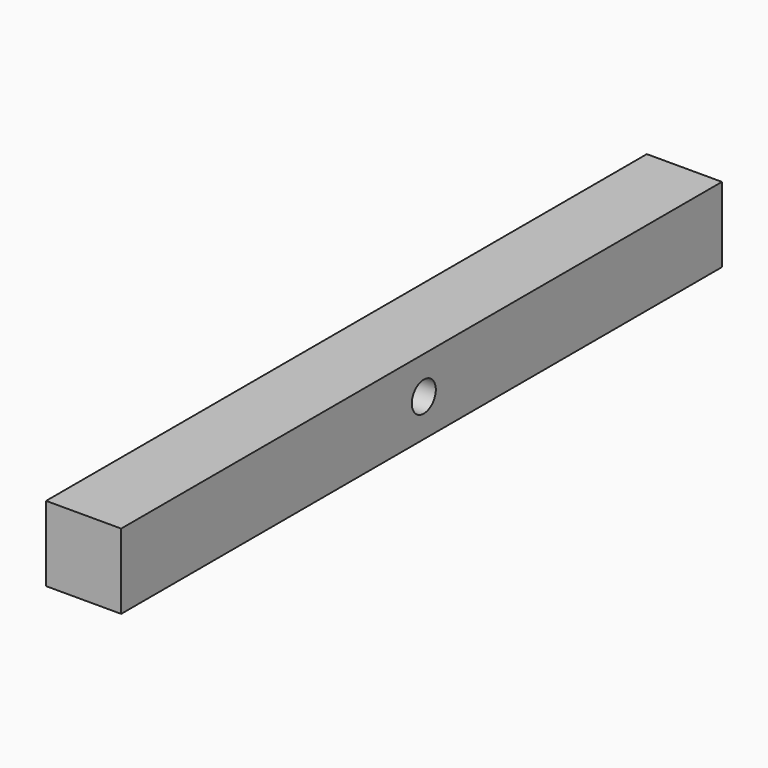
from build123d import *

# Parameters (mm, degrees)
F0_W     = 1000
F0_H     = 100
F1_DEPTH = 100
F2_R     = 20
F3_DEPTH = 100


with BuildPart() as f1:
    # F0 (on Right) → F1 (new body)
    with BuildSketch(Plane.YZ):
        with Locations((-3.763909, 0)):
            Rectangle(F0_W, F0_H)
    extrude(amount=F1_DEPTH)

    # F2 (on face) → F3 (cut)
    with BuildSketch(Plane.YZ.offset(100)):
        Circle(F2_R)
    extrude(amount=-F3_DEPTH, mode=Mode.SUBTRACT)


solid = f1.part
